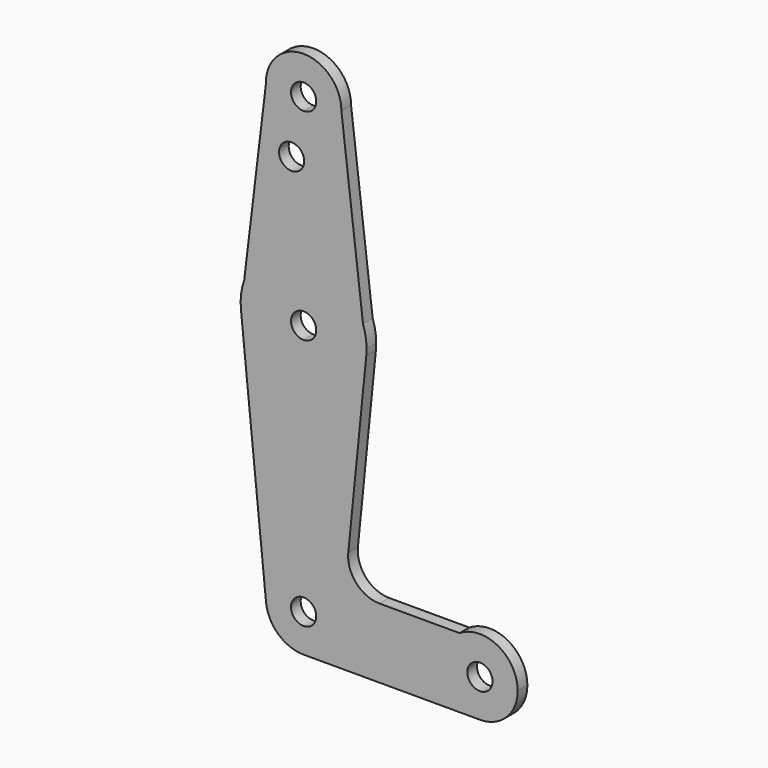
from build123d import *

# Parameters (mm, degrees)
F1_DEPTH = 3.048


with BuildPart() as f1:
    # F0 (on Front) → F1 (new body)
    with BuildSketch(Plane.XZ):
        with BuildLine():
            ThreePointArc((-64.6167263357, 88.8249030021), (-61.7103030753, 82.3133455058), (-55.0979500995, 79.6441760991))
            ThreePointArc((-55.0979500995, 79.6441760991), (-48.3627580087, 82.4339840083), (-45.5729500995, 89.1691760991))
            ThreePointArc((-45.5729500995, 89.1691760991), (-55.270114774, 98.6926200311), (-64.6167263357, 88.8249030021))
        make_face()
        with BuildLine():
            ThreePointArc((-51.9229500995, 89.1691760991), (-52.8528860693, 86.9241120688), (-55.0979500995, 85.9941760991))
            ThreePointArc((-55.0979500995, 85.9941760991), (-57.3430141298, 91.4142401294), (-51.9229500995, 89.1691760991))
        make_face(mode=Mode.SUBTRACT)
        with BuildLine():
            ThreePointArc((-45.5729500995, 89.1691760991), (-48.3627580087, 82.4339840083), (-55.0979500995, 79.6441760991))
            Line((-55.0979500995, 79.6441760991), (-55.0979500995, 75.8780153126))
            ThreePointArc((-55.0979500995, 75.8780153126), (-54.9810340203, 75.3923591308), (-54.9417377532, 74.8943760991))
            ThreePointArc((-54.9417377532, 74.8943760991), (-54.9810340203, 74.3963930674), (-55.0979500995, 73.9107368856))
            Line((-55.0979500995, 73.9107368856), (-55.0979500995, 54.2441760991))
            ThreePointArc((-55.0979500995, 54.2441760991), (-45.9233358367, 51.3245640952), (-40.1233752978, 43.639634761))
            Line((-40.1233752978, 43.639634761), (-45.5729500995, 89.1691760991))
        make_face()
        with BuildLine():
            Line((-55.0979500995, 75.8780153126), (-55.0979500995, 79.6441760991))
            ThreePointArc((-55.0979500995, 79.6441760991), (-61.7103030753, 82.3133455058), (-64.6167263357, 88.8249030021))
            Line((-64.6167263357, 88.8249030021), (-70.0630307116, 43.6665327299))
            ThreePointArc((-70.0630307116, 43.6665327299), (-64.2609214649, 51.3328013929), (-55.0979500995, 54.2441760991))
            Line((-55.0979500995, 54.2441760991), (-55.0979500995, 73.9107368856))
            ThreePointArc((-55.0979500995, 73.9107368856), (-61.2917377532, 74.8943760991), (-55.0979500995, 75.8780153126))
        make_face()
        with BuildLine():
            Line((-70.8933756636, 36.7816760991), (-70.0630307116, 43.6665327299))
            ThreePointArc((-70.0630307116, 43.6665327299), (-70.8587399833, 40.2699988789), (-70.8933756636, 36.7816760991))
        make_face()
        with BuildLine():
            ThreePointArc((-55.0979500995, 54.2441760991), (-64.2609214649, 51.3328013929), (-70.0630307116, 43.6665327299))
            Line((-70.0630307116, 43.6665327299), (-70.8933756636, 36.7816760991))
            ThreePointArc((-70.8933756636, 36.7816760991), (-65.7472238424, 26.5959610008), (-55.0979500995, 22.4941760991))
            Line((-55.0979500995, 22.4941760991), (-55.0979500995, 35.1941760991))
            ThreePointArc((-55.0979500995, 35.1941760991), (-58.2729500995, 38.3691760991), (-55.0979500995, 41.5441760991))
            Line((-55.0979500995, 41.5441760991), (-55.0979500995, 54.2441760991))
        make_face()
        with BuildLine():
            Line((-39.3025245355, 36.7816760991), (-40.1233752978, 43.639634761))
            ThreePointArc((-40.1233752978, 43.639634761), (-45.9233358367, 51.3245640952), (-55.0979500995, 54.2441760991))
            Line((-55.0979500995, 54.2441760991), (-55.0979500995, 41.5441760991))
            ThreePointArc((-55.0979500995, 41.5441760991), (-52.8528860693, 40.6142401294), (-51.9229500995, 38.3691760991))
            ThreePointArc((-51.9229500995, 38.3691760991), (-52.8528860693, 36.1241120688), (-55.0979500995, 35.1941760991))
            Line((-55.0979500995, 35.1941760991), (-55.0979500995, 22.4941760991))
            ThreePointArc((-55.0979500995, 22.4941760991), (-44.4486763567, 26.5959610008), (-39.3025245355, 36.7816760991))
        make_face()
        with BuildLine():
            ThreePointArc((-39.2229500995, 38.3691760991), (-39.4496754346, 41.042586844), (-40.1233752978, 43.639634761))
            Line((-40.1233752978, 43.639634761), (-39.3025245355, 36.7816760991))
            ThreePointArc((-39.3025245355, 36.7816760991), (-39.2428561889, 37.574429545), (-39.2229500995, 38.3691760991))
        make_face()
        with BuildLine():
            ThreePointArc((-55.0979500995, 22.4941760991), (-65.7472238424, 26.5959610008), (-70.8933756636, 36.7816760991))
            Line((-70.8933756636, 36.7816760991), (-64.575205438, -26.0833239009))
            ThreePointArc((-64.575205438, -26.0833239009), (-62.1618791585, -18.7412596552), (-55.0979500995, -15.6058239009))
            Line((-55.0979500995, -15.6058239009), (-55.0979500995, 22.4941760991))
        make_face()
        with BuildLine():
            Line((-43.8377185236, -8.3429343308), (-39.3025245355, 36.7816760991))
            ThreePointArc((-39.3025245355, 36.7816760991), (-44.4486763567, 26.5959610008), (-55.0979500995, 22.4941760991))
            Line((-55.0979500995, 22.4941760991), (-55.0979500995, -15.6058239009))
            ThreePointArc((-55.0979500995, -15.6058239009), (-48.3627580087, -18.3956318101), (-45.5729500995, -25.1308239009))
            Line((-45.5729500995, -25.1308239009), (-20.1729500995, -25.1308239009))
            ThreePointArc((-20.1729500995, -25.1308239009), (-18.9945706735, -20.5417553685), (-15.7509973448, -17.0881543308))
            Line((-15.7509973448, -17.0881543308), (-35.9273694011, -17.0881543308))
            ThreePointArc((-35.9273694011, -17.0881543308), (-41.8233955223, -14.4711106213), (-43.8377185236, -8.3429343308))
        make_face()
        with BuildLine():
            ThreePointArc((-55.0979500995, -15.6058239009), (-62.1618791585, -18.7412596552), (-64.575205438, -26.0833239009))
            ThreePointArc((-64.575205438, -26.0833239009), (-61.4875143452, -32.1947529598), (-55.0979500995, -34.6558239009))
            ThreePointArc((-55.0979500995, -34.6558239009), (-48.3627580087, -31.8660159917), (-45.5729500995, -25.1308239009))
            Line((-45.5729500995, -25.1308239009), (-51.9229500995, -25.1308239009))
            ThreePointArc((-51.9229500995, -25.1308239009), (-57.3430141298, -27.3758879312), (-55.0979500995, -21.9558239009))
            Line((-55.0979500995, -21.9558239009), (-55.0979500995, -15.6058239009))
        make_face()
        with BuildLine():
            ThreePointArc((-45.5729500995, -25.1308239009), (-48.3627580087, -31.8660159917), (-55.0979500995, -34.6558239009))
            Line((-55.0979500995, -34.6558239009), (-10.6479500995, -34.6558239009))
            ThreePointArc((-10.6479500995, -34.6558239009), (-17.3831421903, -31.8660159917), (-20.1729500995, -25.1308239009))
            Line((-20.1729500995, -25.1308239009), (-45.5729500995, -25.1308239009))
        make_face()
        with BuildLine():
            ThreePointArc((-20.1729500995, -25.1308239009), (-17.3831421903, -31.8660159917), (-10.6479500995, -34.6558239009))
            ThreePointArc((-10.6479500995, -34.6558239009), (-3.9127580087, -31.8660159917), (-1.1229500995, -25.1308239009))
            ThreePointArc((-1.1229500995, -25.1308239009), (-6.0588815672, -16.7842033269), (-15.7509973448, -17.0881543308))
            ThreePointArc((-15.7509973448, -17.0881543308), (-18.9945706735, -20.5417553685), (-20.1729500995, -25.1308239009))
        make_face()
        with BuildLine():
            ThreePointArc((-7.4729500995, -25.1308239009), (-10.6479500995, -28.3058239009), (-13.8229500995, -25.1308239009))
            ThreePointArc((-13.8229500995, -25.1308239009), (-10.6479500995, -21.9558239009), (-7.4729500995, -25.1308239009))
        make_face(mode=Mode.SUBTRACT)
        with BuildLine():
            ThreePointArc((-45.5729500995, -25.1308239009), (-48.3627580087, -18.3956318101), (-55.0979500995, -15.6058239009))
            Line((-55.0979500995, -15.6058239009), (-55.0979500995, -21.9558239009))
            ThreePointArc((-55.0979500995, -21.9558239009), (-52.8528860693, -22.8857598706), (-51.9229500995, -25.1308239009))
            Line((-51.9229500995, -25.1308239009), (-45.5729500995, -25.1308239009))
        make_face()
    extrude(amount=F1_DEPTH)


solid = f1.part
